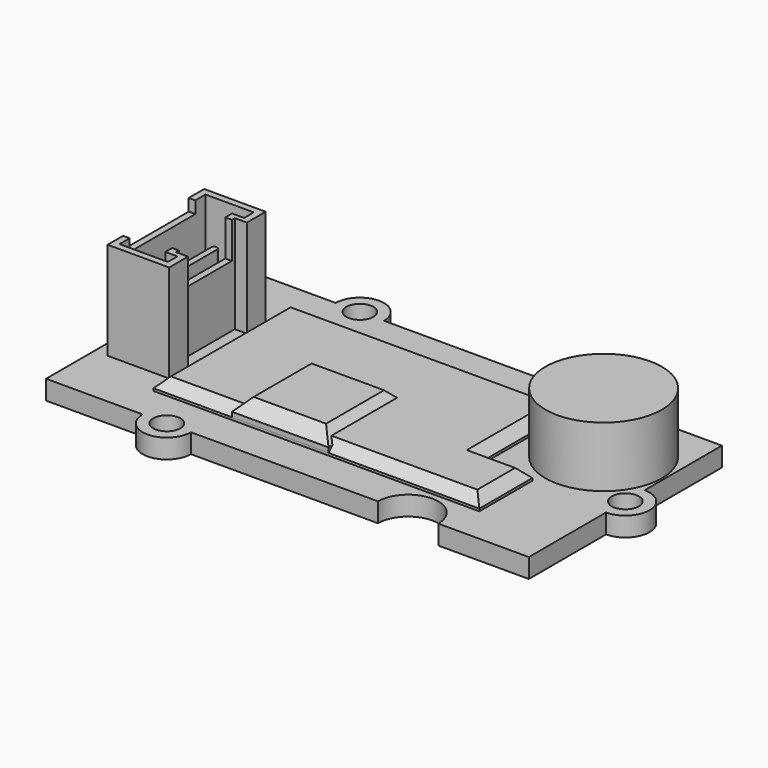
from build123d import *

# Parameters (mm, degrees)
PAD_DEPTH               = 1.6
SKETCH001_R             = 1.125
POCKET_DEPTH            = 1.601
PAD005_DEPTH            = 8.1
POCKET003_DEPTH         = 7
SKETCH010_W             = 6.8
SKETCH010_H             = 5
POCKET004_DEPTH         = 1
SKETCH011_W             = 5.5
SKETCH011_H             = 3
POCKET005_DEPTH         = 3
PAD006_DEPTH            = 4
PAD007_DEPTH            = 3.4
BODY005_PLACEMENT_ANGLE = 90
SKETCH014_R             = 4.825
PAD008_DEPTH            = 5
SKETCH015_W             = 8
SKETCH015_H             = 8
PAD009_DEPTH            = 1.6
CHAMFER_SIZE            = 1
SKETCH016_W             = 27
SKETCH016_H             = 14
PAD010_DEPTH            = 1
SKETCH017_W             = 15
SKETCH017_H             = 15
POCKET006_DEPTH         = 0.001
POCKET006_DEPTH_BACK    = -1.001
CHAMFER001_SIZE         = 0.8


with BuildPart() as obj1:
    # Sketch → Pad (new body)
    with BuildSketch(Plane.XY):
        with BuildLine():
            Line((-20, 10), (-12, 10))
            ThreePointArc((-8, 10), (-10, 12), (-12, 10))
            Line((-8, 10), (0, 10))
            Line((0, 10), (7.5, 10))
            ThreePointArc((7.5, 10), (10, 7.5), (12.5, 10))
            Line((12.5, 10), (20, 10))
            Line((20, 10), (20, 2))
            ThreePointArc((20, -2), (22, 0), (20, 2))
            Line((20, -10), (20, -2))
            Line((20, -10), (12.5, -10))
            ThreePointArc((12.5, -10), (10, -7.5), (7.5, -10))
            Line((7.5, -10), (0, -10))
            Line((0, -10), (-8, -10))
            ThreePointArc((-12, -10), (-10, -12), (-8, -10))
            Line((-12, -10), (-20, -10))
            Line((-20, -10), (-20, -2.5))
            ThreePointArc((-20, -2.5), (-17.5, 0), (-20, 2.5))
            Line((-20, 10), (-20, 2.5))
        make_face()
    extrude(amount=PAD_DEPTH)

    # Sketch001 → Pocket (cut, through all)
    with BuildSketch(Plane.XY):
        with Locations((-10, 10)):
            Circle(SKETCH001_R)
        with Locations((-10, -10)):
            Circle(SKETCH001_R)
        with Locations((20, 0)):
            Circle(SKETCH001_R)
    extrude(amount=POCKET_DEPTH, mode=Mode.SUBTRACT)


with BuildPart() as obj2:
    # Sketch008 → Pad005 (new body)
    with BuildSketch(Plane.XY):
        Polygon((-5, 0), (-3.05, 0), (-3.05, 1), (3.05, 1), (3.05, 0), (5, 0), (5, 5.1), (-5, 5.1), align=None)
    extrude(amount=PAD005_DEPTH)

    # Sketch009 (on Face10 of Pad005) → Pocket003 (cut)
    with BuildSketch(Plane.XY.offset(8.1)):
        Polygon((-4.45, 0.55), (-3.45, 0.55), (-3.45, 1.55), (3.45, 1.55), (3.45, 0.55), (4.45, 0.55), (4.45, 4.55), (-4.45, 4.55), align=None)
    extrude(amount=-POCKET003_DEPTH, mode=Mode.SUBTRACT)

    # Sketch010 (on Face5 of Pocket003) → Pocket004 (cut)
    with BuildSketch(Plane.XY.offset(8.1)):
        with Locations((0, 5.5)):
            Rectangle(SKETCH010_W, SKETCH010_H)
    extrude(amount=-POCKET004_DEPTH, mode=Mode.SUBTRACT)

    # Sketch011 (on Face5 of Pocket004) → Pocket005 (cut)
    with BuildSketch(Plane.XY.offset(8.1)):
        with Locations((0, 1.5)):
            Rectangle(SKETCH011_W, SKETCH011_H)
    extrude(amount=-POCKET005_DEPTH, mode=Mode.SUBTRACT)

    # Sketch012 (on Face26 of Pocket005) → Pad006 (join)
    with BuildSketch(Plane.XY.offset(1.1)):
        with BuildLine():
            ThreePointArc((-3.4, 3.25), (-3.65, 3), (-3.4, 2.75))
            Line((-3.4, 2.75), (3.4, 2.75))
            ThreePointArc((3.4, 2.75), (3.65, 3), (3.4, 3.25))
            Line((-3.4, 3.25), (3.4, 3.25))
        make_face()
    extrude(amount=PAD006_DEPTH)

    # Sketch013 → Pad007 (join)
    with BuildSketch(Plane.XY):
        with BuildLine():
            ThreePointArc((-3, 3.75), (-3.75, 3), (-3, 2.25))
            Line((-3, 2.25), (3, 2.25))
            ThreePointArc((3, 2.25), (3.75, 3), (3, 3.75))
            Line((-3, 3.75), (3, 3.75))
        make_face()
    extrude(amount=-PAD007_DEPTH)


with BuildPart() as obj2_1:
    # Body005 placement: moved
    add(obj2.part.moved(Location((-13.8, 0, 1.6))).rotate(Axis((-13.8, 0, 1.6), (0, 0, 1)), BODY005_PLACEMENT_ANGLE))


with BuildPart() as microphone:
    # Sketch014 → Pad008 (new body)
    with BuildSketch(Plane.XY):
        Circle(SKETCH014_R)
    extrude(amount=PAD008_DEPTH)


with BuildPart() as microphone_1:
    # Body006 placement: moved
    add(microphone.part.moved(Location((15, 4, 1.6))))


with BuildPart() as mainchip:
    # Sketch015 → Pad009 (new body)
    with BuildSketch(Plane.XY):
        Rectangle(SKETCH015_W, SKETCH015_H)
    extrude(amount=PAD009_DEPTH)

    # Chamfer
    chamfer_edges = [mainchip.edges().sort_by_distance(p)[0] for p in [
        (0, -4, 1.6),
        (-4, 0, 1.6),
        (0, 4, 1.6),
        (4, 0, 1.6),
    ]]
    chamfer(chamfer_edges, length=CHAMFER_SIZE)


with BuildPart() as mainchip_1:
    # Body007 placement: moved
    add(mainchip.part.moved(Location((-3, -3, 1.6))))


with BuildPart() as obj3:
    # Sketch016 → Pad010 (new body)
    with BuildSketch(Plane.XY):
        Rectangle(SKETCH016_W, SKETCH016_H)
    extrude(amount=PAD010_DEPTH)

    # Sketch017 → Pocket006 (cut, two sides)
    with BuildSketch(Plane.XY) as pocket006_sk:
        with Locations((17, 6)):
            Rectangle(SKETCH017_W, SKETCH017_H)
    extrude(amount=-POCKET006_DEPTH, mode=Mode.SUBTRACT)
    extrude(pocket006_sk.sketch, amount=-POCKET006_DEPTH_BACK, mode=Mode.SUBTRACT)

    # Chamfer001
    chamfer001_edges = [obj3.edges().sort_by_distance(p)[0] for p in [
        (0, -7, 1),
        (13.5, -4.25, 1),
        (11.5, -1.5, 1),
        (9.5, 2.75, 1),
        (-2, 7, 1),
        (-13.5, 0, 1),
    ]]
    chamfer(chamfer001_edges, length=CHAMFER001_SIZE)


with BuildPart() as obj3_1:
    # Body008 placement: moved
    add(obj3.part.moved(Location((0, 0, 1.6))))


solid = Compound([obj1.part, obj2_1.part, microphone_1.part, mainchip_1.part, obj3_1.part])
